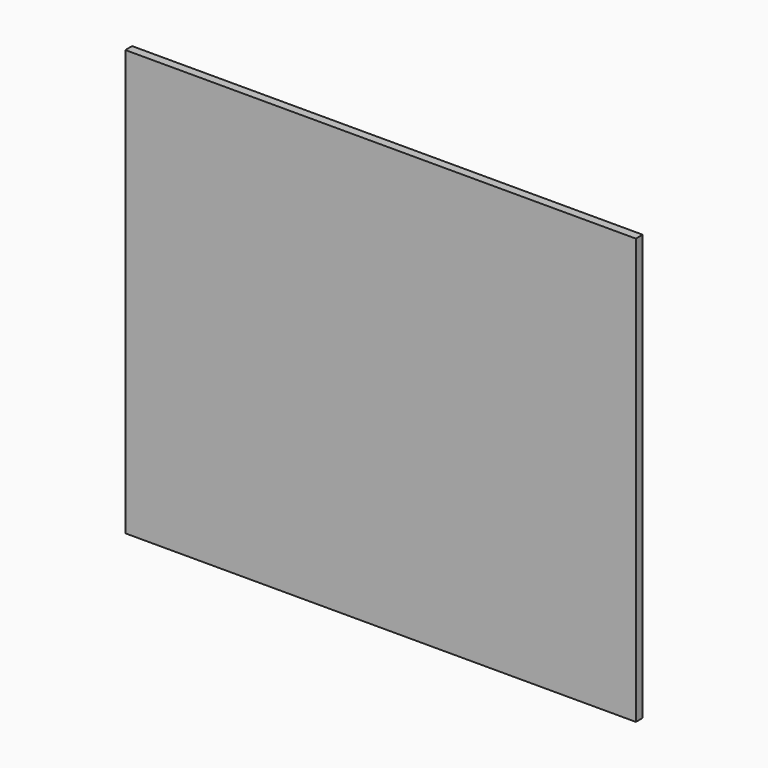
from build123d import *

# Parameters (mm, degrees)
SKETCH_W      = 1200
SKETCH_H      = 1000
EXTRUDE_DEPTH = 20


with BuildPart() as part:
    # Sketch → Extrude (new body)
    with BuildSketch(Plane.XZ):
        with Locations((600, 500)):
            Rectangle(SKETCH_W, SKETCH_H)
    extrude(amount=EXTRUDE_DEPTH)


solid = part.part
